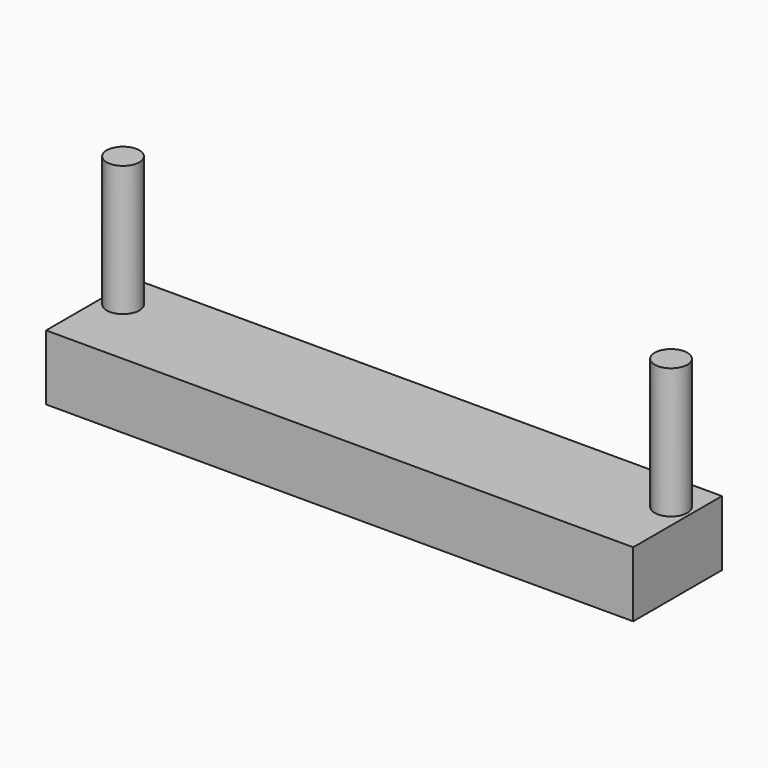
from build123d import *

# Parameters (mm, degrees)
F0_W     = 114.3
F0_H     = 12.7
F1_DEPTH = 21.59
F3_DEPTH = 25.4
F2_R     = 3.175
F4_DEPTH = 25.4


with BuildPart() as f1:
    # F0 (on Front) → F1 (new body)
    with BuildSketch(Plane.XZ):
        with Locations((57.15, 6.35)):
            Rectangle(F0_W, F0_H)
    extrude(amount=F1_DEPTH)

    # F2 (on face) → F3 (join)
    with BuildSketch(Plane.XY.offset(12.7)):
        with BuildLine():
            ThreePointArc((6.985, -7.62), (3.81, -4.445), (0.635, -7.62))
            ThreePointArc((0.635, -7.62), (3.81, -10.795), (6.985, -7.62))
        make_face()
    extrude(amount=F3_DEPTH)

    # F2 (on face) → F4 (join)
    with BuildSketch(Plane.XY.offset(12.7)):
        with Locations((110.49, -7.62)):
            Circle(F2_R)
    extrude(amount=F4_DEPTH)


solid = f1.part
